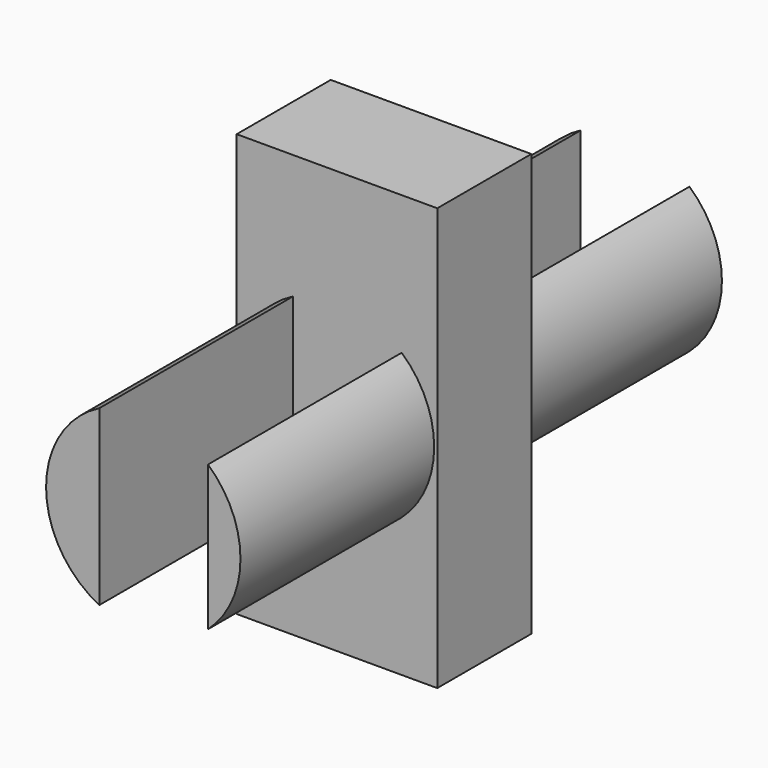
from build123d import *

# Parameters (mm, degrees)
F1_DEPTH = 76.2
F2_W     = 29.7769960016
F2_H     = 106.9766134024
F3_DEPTH = 25.4


with BuildPart() as f1:
    # F0 (on Front) → F1 (new body, symmetric)
    with BuildSketch(Plane.XZ):
        with BuildLine():
            Line((-11.1479088664, -21.9459166651), (-11.1479088664, 21.9459166651))
            ThreePointArc((-11.1479088664, 21.9459166651), (-24.6150183905, 0), (-11.1479088664, -21.9459166651))
        make_face()
    extrude(amount=F1_DEPTH, both=True)



with BuildPart() as f1b:
    # F0 (on Front) → F1, piece 2 (new body, symmetric)
    with BuildSketch(Plane.XZ):
        with BuildLine():
            ThreePointArc((16.3939911872, -18.3612685651), (22.4659467298, -10.0588452567), (24.6150183905, 0))
            ThreePointArc((24.6150183905, 0), (22.4659467298, 10.0588452567), (16.3939911872, 18.3612685651))
            Line((16.3939911872, 18.3612685651), (16.3939911872, -18.3612685651))
        make_face()
    extrude(amount=F1_DEPTH, both=True)


with BuildPart() as f1_1:
    add(f1.part)

    add(f1b.part)  # F3 merges F1b
    # F2 (on Right) → F3 (join, symmetric)
    with BuildSketch(Plane.YZ):
        Rectangle(F2_W, F2_H)
    extrude(amount=F3_DEPTH, both=True)


solid = f1_1.part
